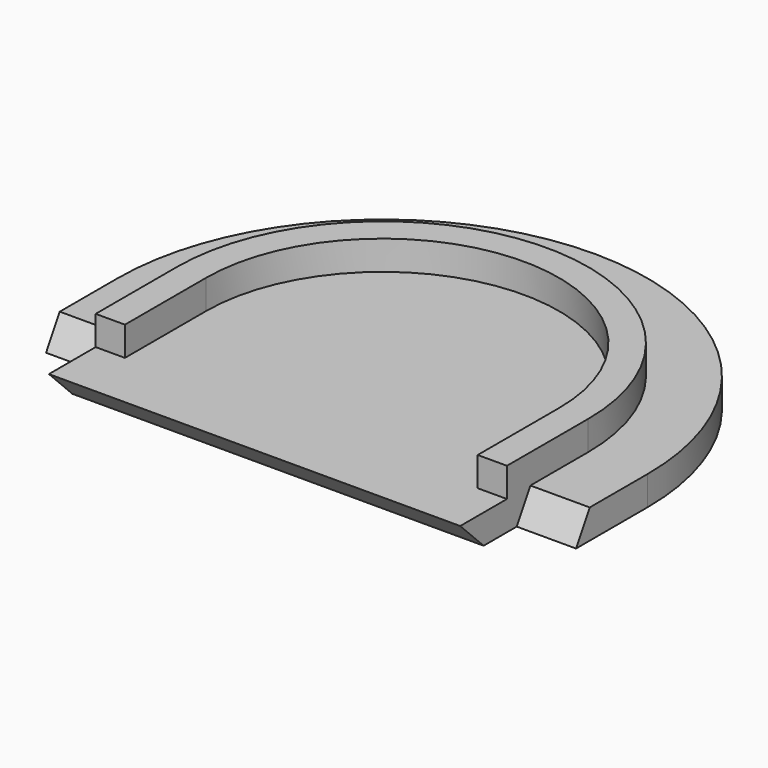
from build123d import *

# Parameters (mm, degrees)
F1_DEPTH = 3.6
F3_DEPTH = 7.3
F5_DEPTH = 7.3
F7_DEPTH = 3.6
F9_DEPTH = 57.901


with BuildPart() as f1:
    # F0 (on Top) → F1 (new body)
    with BuildSketch(Plane.XY):
        with BuildLine():
            Line((-32.6, 0), (-32.6, -11))
            Line((-32.6, -11), (-25.3, -11))
            Line((-25.3, -11), (-25.3, -21))
            Line((-25.3, -21), (25.3, -21))
            Line((25.3, -21), (25.3, -11))
            Line((25.3, -11), (32.6, -11))
            Line((32.6, -11), (32.6, 0))
            ThreePointArc((32.6, 0), (0, 32.6), (-32.6, 0))
        make_face()
    extrude(amount=F1_DEPTH)

    # F2 (on face) → F3 (cut, through all)
    with BuildSketch(Plane.YZ.offset(32.6)):
        Polygon((-8.9, 3.6), (-11, 3.6), (-11, 0), align=None)
    extrude(amount=-F3_DEPTH, mode=Mode.SUBTRACT)

    # F4 (on face) → F5 (cut, through all)
    with BuildSketch(Plane(origin=(-32.6, 0, 0), x_dir=(0, -1, 0), z_dir=(-1, 0, 0))):
        Polygon((11, 0), (11, 3.6), (8.9, 3.6), align=None)
    extrude(amount=-F5_DEPTH, mode=Mode.SUBTRACT)

    # F6 (on face) → F7 (join)
    with BuildSketch(Plane.XY.offset(3.6)):
        with BuildLine():
            Line((-25.3, 0), (-25.3, -12.5))
            Line((-25.3, -12.5), (-21.7, -12.5))
            Line((-21.7, -12.5), (-21.7, 0))
            ThreePointArc((-21.7, 0), (0, 21.7), (21.7, 0))
            Line((21.7, 0), (21.7, -12.5))
            Line((21.7, -12.5), (25.3, -12.5))
            Line((25.3, -12.5), (25.3, 0))
            ThreePointArc((25.3, 0), (0, 25.3), (-25.3, 0))
        make_face()
    extrude(amount=F7_DEPTH)

    # F8 (on face) → F9 (cut, through all)
    with BuildSketch(Plane.YZ.offset(25.3)):
        Polygon((-19.691169, 3.6), (-21, 3.6), (-21, 0), (-16.091169, 0), align=None)
    extrude(amount=-F9_DEPTH, mode=Mode.SUBTRACT)


solid = f1.part
